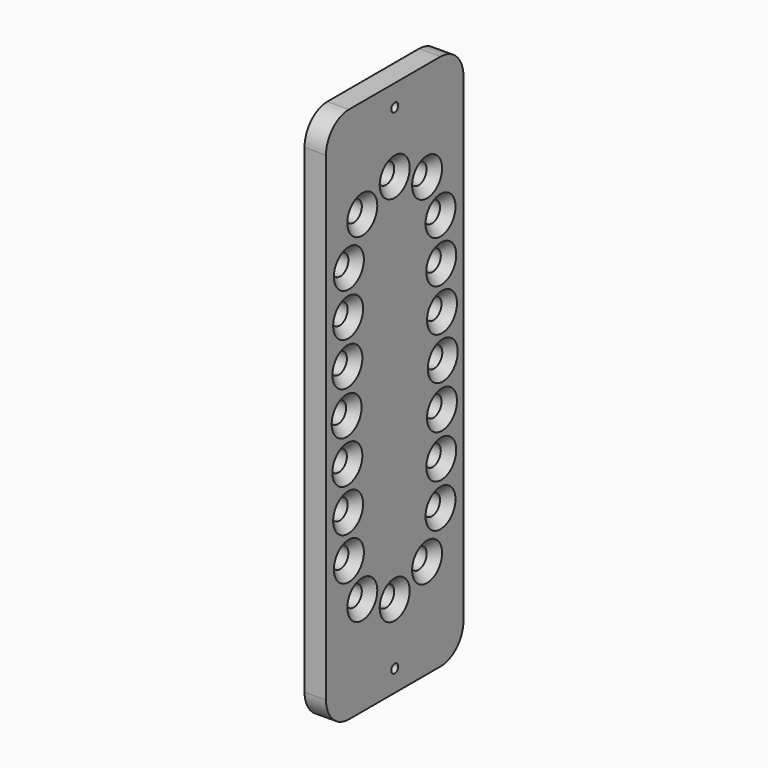
from build123d import *

# Parameters (mm, degrees)
F0_R     = 4.5
F0_R_2   = 1.9304
F1_DEPTH = 9.525
F2_SIZE  = 3.81


with BuildPart() as f1:
    # F0 (on Right) → F1 (new body)
    with BuildSketch(Plane.YZ):
        with BuildLine():
            ThreePointArc((-25.373425, 125.624167), (-34.353681, 121.904423), (-38.073425, 112.924167))
            Line((-38.073425, 112.924167), (-38.073425, -99.800833))
            ThreePointArc((-38.073425, -99.800833), (-34.353681, -108.781089), (-25.373425, -112.500833))
            Line((-25.373425, -112.500833), (0.026575, -112.500833))
            Line((0.026575, -112.500833), (25.426575, -112.500833))
            ThreePointArc((25.426575, -112.500833), (34.406831, -108.781089), (38.126575, -99.800833))
            Line((38.126575, -99.800833), (38.126575, 112.924167))
            ThreePointArc((38.126575, 112.924167), (34.406831, 121.904423), (25.426575, 125.624167))
            Line((25.426575, 125.624167), (0.026575, 125.624167))
            Line((0.026575, 125.624167), (-25.373425, 125.624167))
        make_face()
        with Locations((-17.960512, -68.548846)):
            Circle(F0_R, mode=Mode.SUBTRACT)
        with Locations((0, -75.988333)):
            Circle(F0_R, mode=Mode.SUBTRACT)
        with Locations((-25.4, -50.588333)):
            Circle(F0_R, mode=Mode.SUBTRACT)
        with Locations((-25.817282, -31.538333)):
            Circle(F0_R, mode=Mode.SUBTRACT)
        with Locations((-26.234564, -12.488333)):
            Circle(F0_R, mode=Mode.SUBTRACT)
        with Locations((-26.651846, 6.561667)):
            Circle(F0_R, mode=Mode.SUBTRACT)
        with Locations((0.026575, -102.975833)):
            Circle(F0_R_2, mode=Mode.SUBTRACT)
        with Locations((17.960512, -68.548846)):
            Circle(F0_R, mode=Mode.SUBTRACT)
        with Locations((25.4, -50.588333)):
            Circle(F0_R, mode=Mode.SUBTRACT)
        with Locations((25.817282, -31.538333)):
            Circle(F0_R, mode=Mode.SUBTRACT)
        with Locations((26.234564, -12.488333)):
            Circle(F0_R, mode=Mode.SUBTRACT)
        with Locations((26.651846, 6.561667)):
            Circle(F0_R, mode=Mode.SUBTRACT)
        with Locations((-26.234564, 25.611667)):
            Circle(F0_R, mode=Mode.SUBTRACT)
        with Locations((-25.817282, 44.661667)):
            Circle(F0_R, mode=Mode.SUBTRACT)
        with Locations((-25.4, 63.711667)):
            Circle(F0_R, mode=Mode.SUBTRACT)
        with Locations((-17.960512, 81.672179)):
            Circle(F0_R, mode=Mode.SUBTRACT)
        with Locations((0, 89.111667)):
            Circle(F0_R, mode=Mode.SUBTRACT)
        with Locations((0.026575, 116.099167)):
            Circle(F0_R_2, mode=Mode.SUBTRACT)
        with Locations((26.234564, 25.611667)):
            Circle(F0_R, mode=Mode.SUBTRACT)
        with Locations((25.817282, 44.661667)):
            Circle(F0_R, mode=Mode.SUBTRACT)
        with Locations((25.4, 63.711667)):
            Circle(F0_R, mode=Mode.SUBTRACT)
        with Locations((17.960512, 81.672179)):
            Circle(F0_R, mode=Mode.SUBTRACT)
    extrude(amount=F1_DEPTH)

    # F2
    f2_edges = [f1.edges().sort_by_distance(p)[0] for p in [
        (9.525, -4.5, 89.111667),
        (9.525, -22.460512, 81.672179),
        (9.525, -29.9, 63.711667),
        (9.525, -30.317282, 44.661667),
        (9.525, -30.734564, 25.611667),
        (9.525, -31.151846, 6.561667),
        (9.525, -30.734564, -12.488333),
        (9.525, -30.317282, -31.538333),
        (9.525, -29.9, -50.588333),
        (9.525, -22.460512, -68.548846),
        (9.525, -4.5, -75.988333),
        (9.525, 13.460512, -68.548846),
        (9.525, 20.9, -50.588333),
        (9.525, 21.317282, -31.538333),
        (9.525, 21.734564, -12.488333),
        (9.525, 22.151846, 6.561667),
        (9.525, 21.734564, 25.611667),
        (9.525, 21.317282, 44.661667),
        (9.525, 20.9, 63.711667),
        (9.525, 13.460512, 81.672179),
    ]]
    chamfer(f2_edges, length=F2_SIZE)


solid = f1.part
